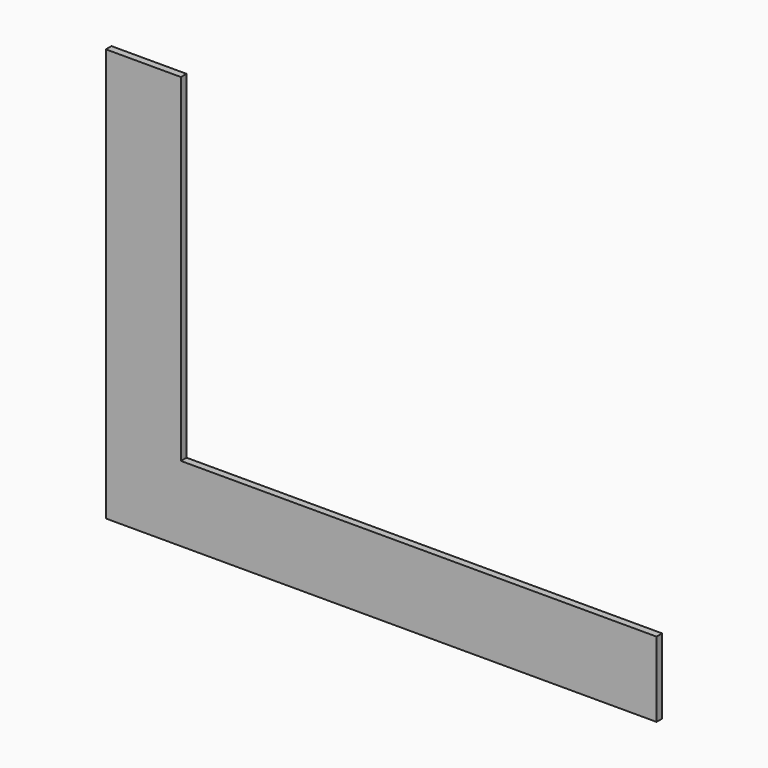
from build123d import *

# Parameters (mm, degrees)
F0_W     = 30
F0_H     = 135
F0_H_2   = 30
F0_W_2   = 190
F1_DEPTH = 2.8


with BuildPart() as f1:
    # F0 (on Front) → F1 (new body)
    with BuildSketch(Plane.XZ):
        with Locations((15, 67.5)):
            Rectangle(F0_W, F0_H)
        with Locations((15, -15)):
            Rectangle(F0_W, F0_H_2)
        with Locations((125, -15)):
            Rectangle(F0_W_2, F0_H_2)
    extrude(amount=F1_DEPTH)


solid = f1.part
